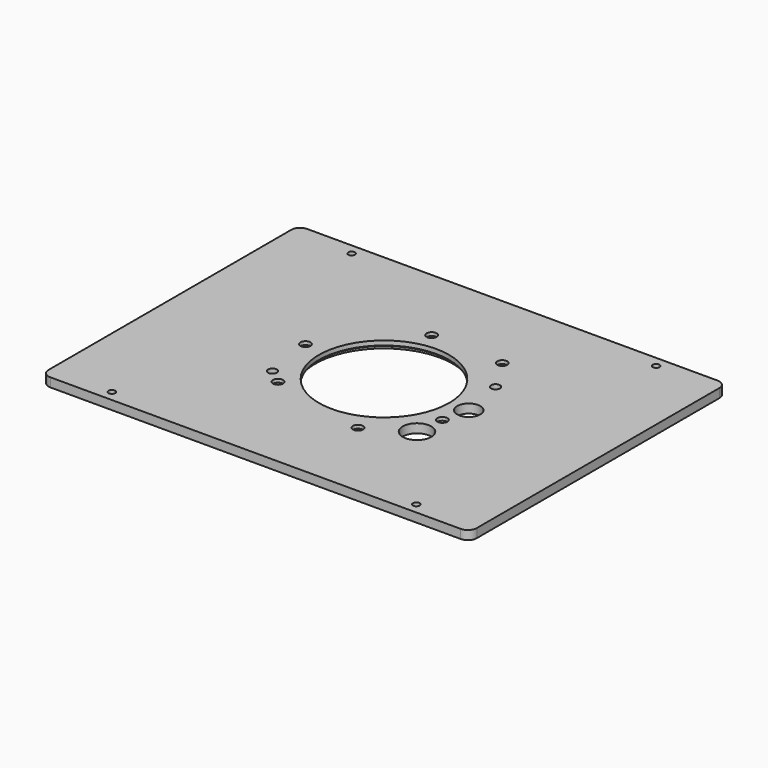
from build123d import *

# Parameters (mm, degrees)
F1_DEPTH  = 6.35
F2_R      = 46.355
F2_R_2    = 8.1788
F2_R_3    = 10.16
F2_R_4    = 3.175
F2_R_5    = 3.556
F2_R_6    = 2.38125
F3_DEPTH  = 6.351
F4_R      = 48.895
F5_DEPTH  = 2.413
F6_SIZE   = 0.79375
F7_R      = 6.731
F7_R_2    = 7.1501
F8_DEPTH  = 3.96875
F9_R      = 3.571875
F10_DEPTH = 6.351
F11_R     = 6.746875
F12_DEPTH = 3.96875


with BuildPart() as f1:
    # F0 (on Top) → F1 (new body)
    with BuildSketch(Plane.XY):
        with BuildLine():
            ThreePointArc((152.4, 107.95), (150.540128, 112.440128), (146.05, 114.3))
            Line((146.05, 114.3), (-146.05, 114.3))
            ThreePointArc((-146.05, 114.3), (-150.540128, 112.440128), (-152.4, 107.95))
            Line((-152.4, 107.95), (-152.4, -107.95))
            ThreePointArc((-152.4, -107.95), (-150.540128, -112.440128), (-146.05, -114.3))
            Line((-146.05, -114.3), (146.05, -114.3))
            ThreePointArc((146.05, -114.3), (150.540128, -112.440128), (152.4, -107.95))
            Line((152.4, -107.95), (152.4, 107.95))
        make_face()
    extrude(amount=F1_DEPTH)

    # F2 (on face) → F3 (cut, through all)
    with BuildSketch(Plane(origin=(0, 0, 0), x_dir=(1, 0, 0), z_dir=(0, 0, -1))):
        Circle(F2_R)
        with Locations((60.325, 0)):
            Circle(F2_R_2)
        with Locations((53.975, 38.1)):
            Circle(F2_R_3)
        with Locations((54.305205, -31.353125)):
            Circle(F2_R_4)
        with Locations((-54.305205, 31.353125)):
            Circle(F2_R_4)
        with Locations((25.4, 54.900886)):
            Circle(F2_R_5)
        with Locations((-60.245562, -5.453398)):
            Circle(F2_R_5)
        with Locations((39.444204, -55.973177)):
            Circle(F2_R_5)
        with Locations((108.331, 106.68)):
            Circle(F2_R_6)
        with Locations((-108.331, 106.68)):
            Circle(F2_R_6)
        with Locations((-108.331, -106.68)):
            Circle(F2_R_6)
        with Locations((108.331, -106.68)):
            Circle(F2_R_6)
    extrude(amount=-F3_DEPTH, mode=Mode.SUBTRACT)

    # F4 (on face) → F5 (cut)
    with BuildSketch(Plane(origin=(0, 0, 0), x_dir=(1, 0, 0), z_dir=(0, 0, -1))):
        Circle(F4_R)
    extrude(amount=-F5_DEPTH, mode=Mode.SUBTRACT)

    # F6
    f6_edges = [f1.edges().sort_by_distance(p)[0] for p in [
        (-46.355, 0, 2.413),
    ]]
    chamfer(f6_edges, length=F6_SIZE)

    # F7 (on face) → F8 (cut)
    with BuildSketch(Plane(origin=(0, 0, 0), x_dir=(1, 0, 0), z_dir=(0, 0, -1))):
        with Locations((39.444204, -55.973177)):
            Circle(F7_R)
        with Locations((-60.245562, -5.453398)):
            Circle(F7_R_2)
        with Locations((25.4, 54.900886)):
            Circle(F7_R)
    extrude(amount=-F8_DEPTH, mode=Mode.SUBTRACT)

    # F9 (on face) → F10 (cut, through all)
    with BuildSketch(Plane(origin=(0, 0, 0), x_dir=(1, 0, 0), z_dir=(0, 0, -1))):
        with Locations((56.136862, 18.239972)):
            Circle(F9_R)
        with Locations((-12.272152, -57.735935)):
            Circle(F9_R)
        with Locations((-43.86471, 39.495963)):
            Circle(F9_R)
    extrude(amount=-F10_DEPTH, mode=Mode.SUBTRACT)

    # F11 (on face) → F12 (cut)
    with BuildSketch(Plane(origin=(0, 0, 0), x_dir=(1, 0, 0), z_dir=(0, 0, -1))):
        with Locations((-12.272152, -57.735935)):
            Circle(F11_R)
        with Locations((56.136862, 18.239972)):
            Circle(F11_R)
        with Locations((-43.86471, 39.495963)):
            Circle(F11_R)
    extrude(amount=-F12_DEPTH, mode=Mode.SUBTRACT)


solid = f1.part
